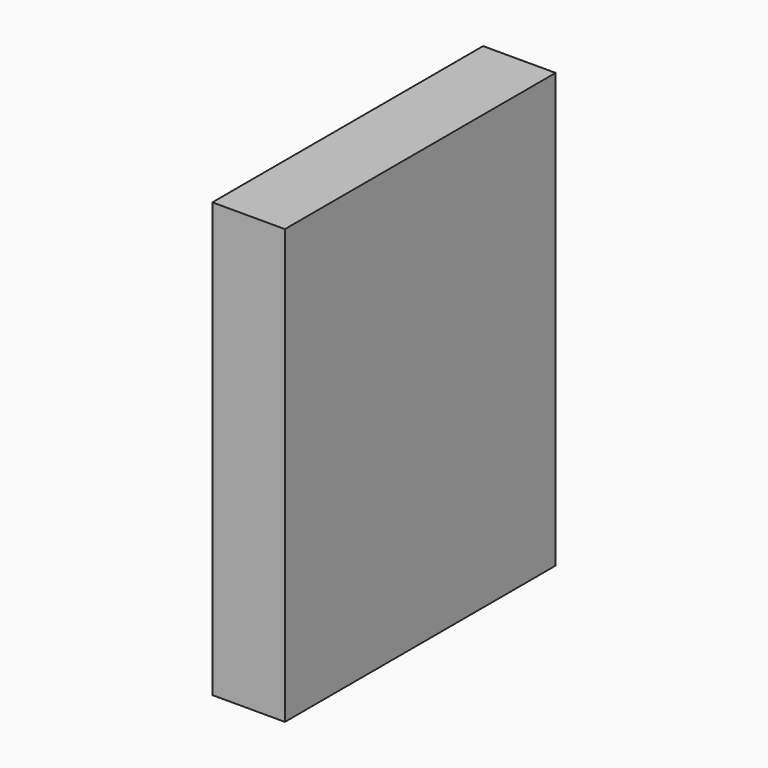
from build123d import *

# Parameters (mm, degrees)
SKETCH_W  = 19.05
SKETCH_H  = 88.9
PAD_DEPTH = 113.98


with BuildPart() as part:
    # Sketch → Pad (new body)
    with BuildSketch(Plane.XY):
        with Locations((9.525, 44.45)):
            Rectangle(SKETCH_W, SKETCH_H)
    extrude(amount=PAD_DEPTH)


solid = part.part
